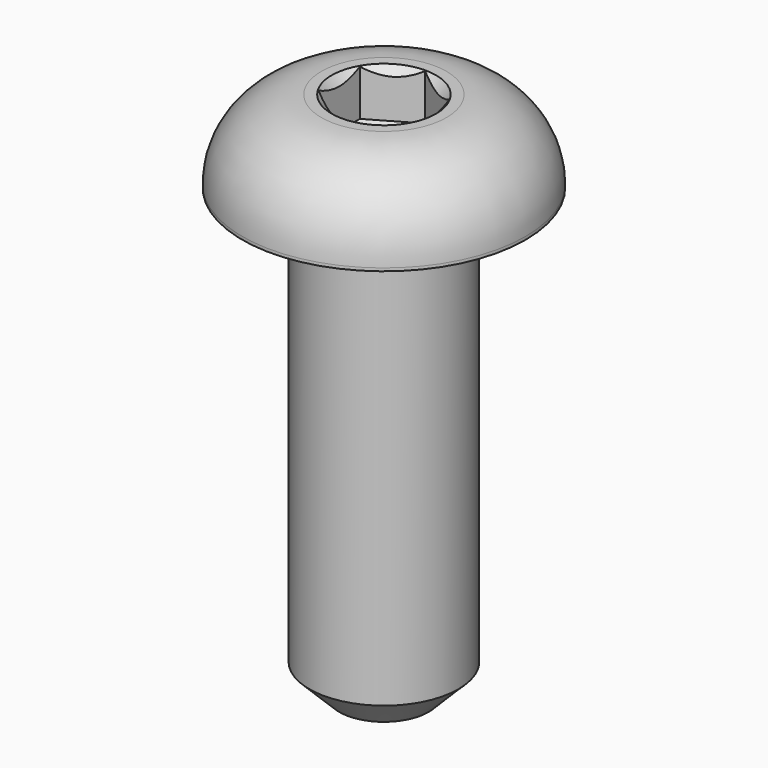
from build123d import *

# Parameters (mm, degrees)
SKETCH002_R     = 2.5
PAD001_DEPTH    = 15
CHAMFER001_SIZE = 1
PAD_DEPTH       = 2
CHAMFER_SIZE    = 0.25


with BuildPart() as body002:
    # Sketch002 → Pad001 (new body)
    with BuildSketch(Plane.XY):
        Circle(SKETCH002_R)
    extrude(amount=-PAD001_DEPTH)

    # Chamfer001
    chamfer001_edges = [body002.edges().sort_by_distance(p)[0] for p in [
        (-2.5, 0, -15),
    ]]
    chamfer(chamfer001_edges, length=CHAMFER001_SIZE)


with BuildPart() as body001:
    # Sketch001 → Pad (new body)
    with BuildSketch(Plane.XY):
        Polygon((1.5, -0.8660254038), (1.5, 0.8660254038), (0, 1.7320508076), (-1.5, 0.8660254038), (-1.5, -0.8660254038), (0, -1.7320508076), align=None)
    extrude(amount=PAD_DEPTH)


with BuildPart() as fusion:
    # Sketch → Revolution (revolve)
    with BuildSketch(Plane.XZ):
        with BuildLine():
            Line((0, -1.19), (4.75, -1.19))
            Line((4.75, -1.19), (4.75, -1.09))
            ThreePointArc((4.75, -1.09), (3.9738329701, 0.7838329701), (2.1, 1.56))
            Line((1.5, 1.56), (2.1, 1.56))
            Line((1.5, 0), (1.5, 1.56))
            Line((2.1, 0), (1.5, 0))
            Line((0, -1.19), (2.1, 0))
        make_face()
    revolve(axis=Axis((0, 0, 0), (0, 0, 1)))

    # Chamfer
    chamfer_edges = [fusion.edges().sort_by_distance(p)[0] for p in [
        (-1.5, 0, 1.56),
    ]]
    chamfer(chamfer_edges, length=CHAMFER_SIZE)

    # Cut: cut Body001
    add(body001.part, mode=Mode.SUBTRACT)


with BuildPart() as fusion_1:
    # Cut placement: moved
    add(fusion.part.moved(Location((0, 0, 1.19))))

    # Fusion: union Body002
    add(body002.part)


solid = fusion_1.part
